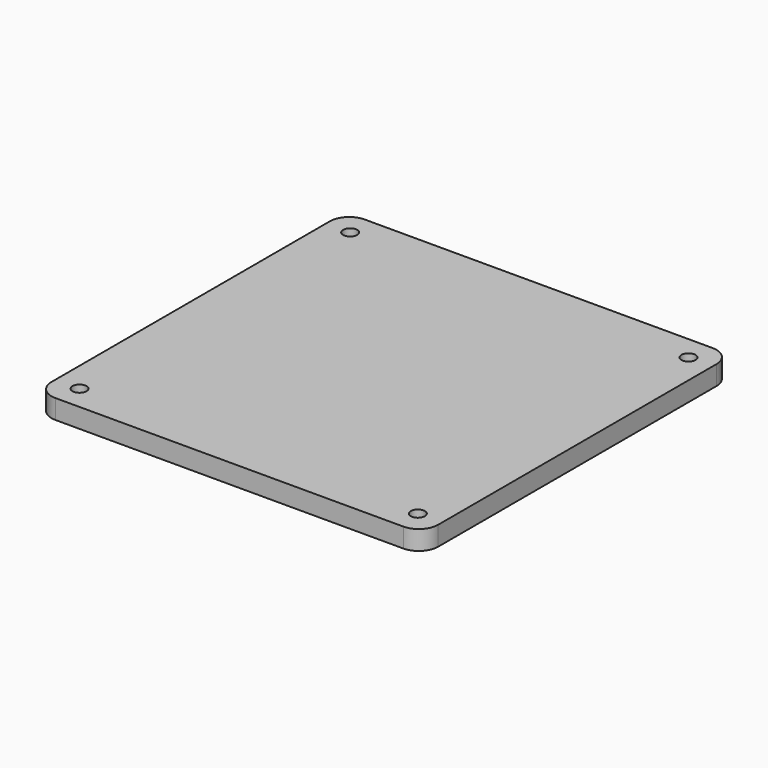
from build123d import *

# Parameters (mm, degrees)
F0_W     = 101.6
F0_H     = 101.6
F1_DEPTH = 5.08
F2_R     = 1.8415
F3_DEPTH = 5.081
F4_R     = 5.08


with BuildPart() as f1:
    # F0 (on Top) → F1 (new body)
    with BuildSketch(Plane.XY):
        with Locations((50.8, 50.8)):
            Rectangle(F0_W, F0_H)
    extrude(amount=F1_DEPTH)

    # F2 (on face) → F3 (cut, through all)
    with BuildSketch(Plane.XY.offset(5.08)):
        with Locations((6.35, 95.25)):
            Circle(F2_R)
        with Locations((95.25, 95.25)):
            Circle(F2_R)
        with Locations((95.25, 6.35)):
            Circle(F2_R)
        with Locations((6.35, 6.35)):
            Circle(F2_R)
    extrude(amount=-F3_DEPTH, mode=Mode.SUBTRACT)

    # F4
    f4_edges = [f1.edges().sort_by_distance(p)[0] for p in [
        (0, 0, 2.54),
        (101.6, 0, 2.54),
        (101.6, 101.6, 2.54),
        (0, 101.6, 2.54),
    ]]
    fillet(f4_edges, radius=F4_R)


solid = f1.part
